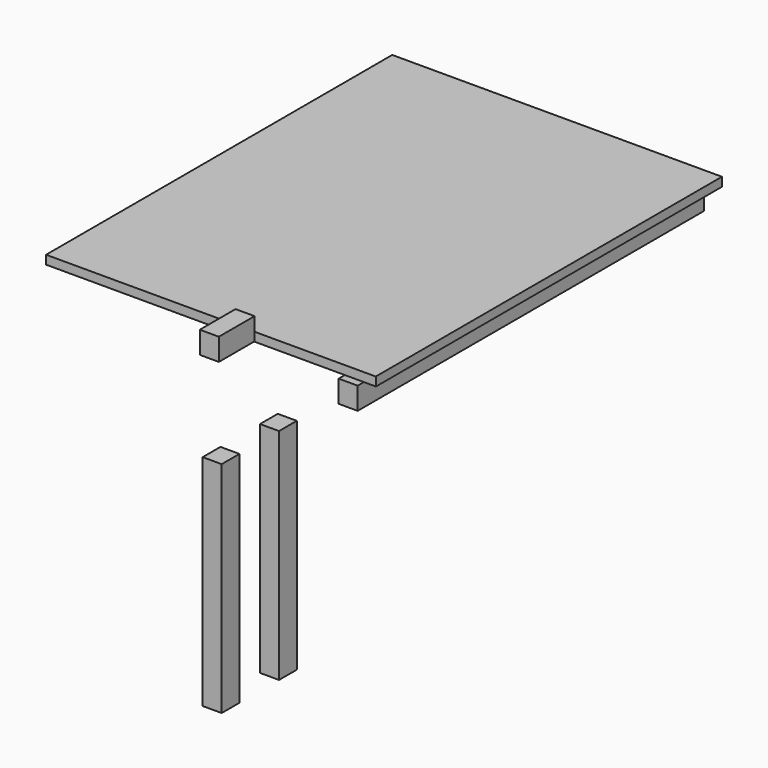
from build123d import *

# Parameters (mm, degrees)
F1_DEPTH  = 866.648
F3_W      = 866.648
F3_H      = 44.45
F4_DEPTH  = 38.1
F6_W      = 44.45
F6_H      = 438.912
F7_DEPTH  = 38.1
F5_W      = 44.45
F5_H      = 438.912
F8_DEPTH  = 38.1
F9_W      = 89.408
F9_H      = 44.45
F10_DEPTH = 38.1


with BuildPart() as f1:
    # F0 (on Front) → F1 (new body)
    with BuildSketch(Plane.XZ):
        Polygon((74.3594063997, 27.9216392498), (-586.0405936003, 27.9216392498), (-586.0405936003, 10.3416586194), (74.3354565084, 10.3416586194), (74.3354565084, 10.1416392498), (74.3594063997, 10.1416392498), align=None)
    extrude(amount=F1_DEPTH)


with BuildPart() as f1b:
    # F0 (on Front) → F1, piece 2 (new body)
    with BuildSketch(Plane.XZ):
        Polygon((-586.0405936003, 10.1416392498), (-586.0405936003, 10.3416586194), (-586.0645434916, 10.3416586194), (-586.0645434916, -3.8823413806), (74.3354565084, -3.8823413806), (74.3354565084, 10.1416392498), align=None)
    extrude(amount=F1_DEPTH)


with BuildPart() as f4:
    # F3 (on Right) → F4 (new body)
    with BuildSketch(Plane.YZ):
        with Locations((-433.324, -22.225)):
            Rectangle(F3_W, F3_H)
    extrude(amount=F4_DEPTH)


with BuildPart() as f7:
    # F6 (on Right) → F7 (new body)
    with BuildSketch(Plane.YZ):
        with Locations((-1184.8976058226, -219.456)):
            Rectangle(F6_W, F6_H)
    extrude(amount=F7_DEPTH)


with BuildPart() as f8:
    # F5 (on Right) → F8 (new body)
    with BuildSketch(Plane.YZ):
        with Locations((-1041.3358775639, -219.456)):
            Rectangle(F5_W, F5_H)
    extrude(amount=F8_DEPTH)


with BuildPart() as f10:
    # F9 (on Right) → F10 (new body)
    with BuildSketch(Plane.YZ):
        with Locations((-1169.5455312729, 205.3751596894)):
            Rectangle(F9_W, F9_H)
    extrude(amount=F10_DEPTH)


solid = Compound([f1.part, f4.part, f7.part, f8.part, f10.part])
